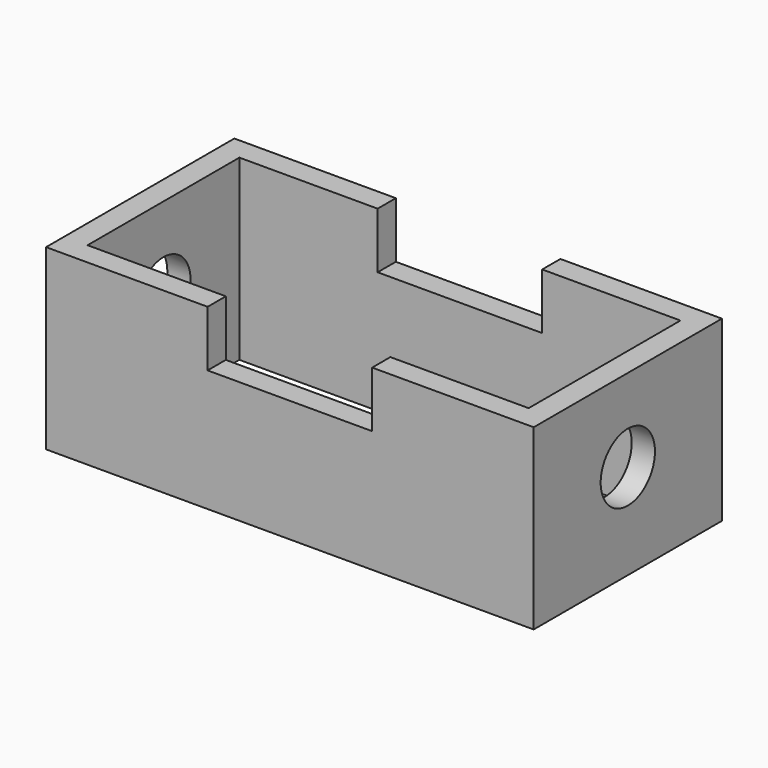
from build123d import *

# Parameters (mm, degrees)
F0_W     = 278.240532
F0_H     = 134.254978
F0_W_2   = 251.682728
F0_H_2   = 108.286024
F1_DEPTH = 101.6
F2_R     = 19.357944
F3_DEPTH = 278.241532
F4_W     = 93.901328
F4_H     = 31.952637
F5_DEPTH = 134.255977


with BuildPart() as f1:
    # F0 (on Top) → F1 (new body)
    with BuildSketch(Plane.XY):
        Rectangle(F0_W, F0_H)
        Rectangle(F0_W_2, F0_H_2, mode=Mode.SUBTRACT)
    extrude(amount=F1_DEPTH)

    # F2 (on face) → F3 (cut, through all)
    with BuildSketch(Plane.YZ.offset(139.120266)):
        with Locations((0, 54.288089)):
            Circle(F2_R)
    extrude(amount=-F3_DEPTH, mode=Mode.SUBTRACT)

    # F4 (on face) → F5 (cut, through all)
    with BuildSketch(Plane.XZ.offset(67.127489)):
        with Locations((0, 85.623682)):
            Rectangle(F4_W, F4_H)
    extrude(amount=-F5_DEPTH, mode=Mode.SUBTRACT)


solid = f1.part
